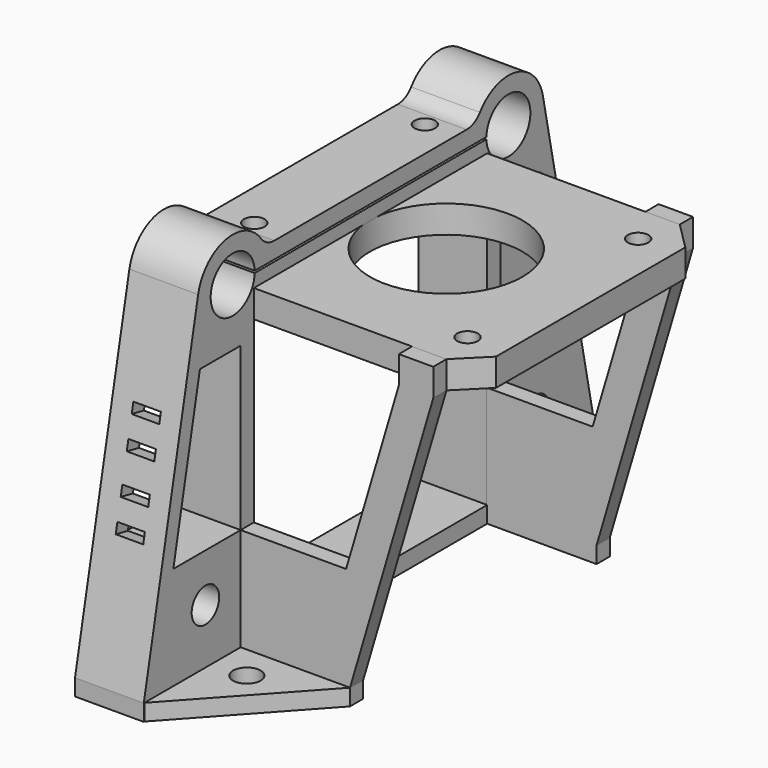
from build123d import *

# Parameters (mm, degrees)
SKETCH015_W     = 42
SKETCH015_H     = 42.4
PAD004_DEPTH    = 4
CHAMFER003_SIZE = 4
SKETCH018_R     = 11.1
SKETCH018_R_2   = 1.5
POCKET010_DEPTH = 4.001
SKETCH019_R     = 2.5
SKETCH019_W     = 42.4
SKETCH019_H     = 45
PAD006_DEPTH    = 10
SKETCH020_R     = 1.5
POCKET011_DEPTH = 12.401
FILLET004_R     = 3
SKETCH_W        = 1.5
SKETCH_H        = 4
POCKET_DEPTH    = 2.2533090509
PAD007_DEPTH    = 2.4
PAD008_DEPTH    = 2.4
SKETCH023_R     = 2
PAD009_DEPTH    = 2.4
SKETCH024_R     = 2
PAD010_DEPTH    = 2.4


with BuildPart() as motorplate:
    # Sketch015 → Pad004 (new body)
    with BuildSketch(Plane.XY):
        Rectangle(SKETCH015_W, SKETCH015_H)
    extrude(amount=PAD004_DEPTH)

    # Chamfer003
    chamfer003_edges = [motorplate.edges().sort_by_distance(p)[0] for p in [
        (21, -21.2, 2),
        (21, 21.2, 2),
    ]]
    chamfer(chamfer003_edges, length=CHAMFER003_SIZE)

    # Sketch018 → Pocket010 (cut, through all)
    with BuildSketch(Plane(origin=(0, 0, 0), x_dir=(1, 0, 0), z_dir=(0, 0, -1))):
        Circle(SKETCH018_R)
        with Locations((-15.5, 15.5)):
            Circle(SKETCH018_R_2)
        with Locations((15.5, 15.5)):
            Circle(SKETCH018_R_2)
        with Locations((-15.5, -15.5)):
            Circle(SKETCH018_R_2)
        with Locations((15.5, -15.5)):
            Circle(SKETCH018_R_2)
    extrude(amount=-POCKET010_DEPTH, mode=Mode.SUBTRACT)


with BuildPart() as rodholder:
    # Sketch019 → Pad006 (new body)
    with BuildSketch(Plane(origin=(-21.2, 0, 0), x_dir=(0, -1, 0), z_dir=(-1, 0, 0))):
        with BuildLine():
            ThreePointArc((-19.1799488929, 8.55), (-25.7143172438, 12.3654287051), (-31.3200773591, 7.2830159436))
            Line((-31.3200773591, 7.2830159436), (-41.2, -41))
            Line((-41.2, -41), (-41.2, -43.4))
            Line((-41.2, -43.4), (41.2, -43.4))
            Line((41.2, -41), (41.2, -43.4))
            Line((41.2, -41), (31.3200773591, 7.2830159436))
            ThreePointArc((31.3200773591, 7.2830159436), (25.7143172438, 12.3654287051), (19.1799488929, 8.55))
            Line((-19.1799488929, 8.55), (19.1799488929, 8.55))
        make_face()
        with Locations((-30, -33)):
            Circle(SKETCH019_R, mode=Mode.SUBTRACT)
        with Locations((30, -33)):
            Circle(SKETCH019_R, mode=Mode.SUBTRACT)
        with Locations((0, -18.5)):
            Rectangle(SKETCH019_W, SKETCH019_H, mode=Mode.SUBTRACT)
        with BuildLine():
            ThreePointArc((21.0528134895, 5.85), (29.05, 6), (21.0528134895, 6.15))
            Line((-21.0528134895, 6.15), (21.0528134895, 6.15))
            ThreePointArc((-21.0528134895, 6.15), (-29.05, 6), (-21.0528134895, 5.85))
            Line((-21.0528134895, 5.85), (21.0528134895, 5.85))
        make_face(mode=Mode.SUBTRACT)
        Polygon((-31.001466603, -2.4), (-23.6, -2.4), (-23.6, -26), (-35.8306217369, -26), align=None, mode=Mode.SUBTRACT)
        Polygon((23.6, -2.4), (23.6, -26), (35.8306217369, -26), (31.001466603, -2.4), align=None, mode=Mode.SUBTRACT)
    extrude(amount=-PAD006_DEPTH)

    # Sketch020 → Pocket011 (cut, through all)
    with BuildSketch(Plane.XY):
        with Locations((-15.7, 15.5)):
            Circle(SKETCH020_R)
        with Locations((-15.7, -15.5)):
            Circle(SKETCH020_R)
    extrude(amount=POCKET011_DEPTH, mode=Mode.SUBTRACT)

    # Fillet004
    fillet004_edges = [rodholder.edges().sort_by_distance(p)[0] for p in [
        (-16.2, -19.179949, 8.55),
        (-16.2, 19.179949, 8.55),
    ]]
    fillet(fillet004_edges, radius=FILLET004_R)

    # Sketch (on Face4 of Fillet004) → Pocket (cut)
    with BuildSketch(Plane(origin=(-21.2, -31.4917595132, 6.4440081411), x_dir=(0, 0.2004712412, 0.9796995874), z_dir=(0, -0.9796995874, 0.2004712412))):
        with Locations((-29.4533105631, -5)):
            Rectangle(SKETCH_W, SKETCH_H)
        with Locations((-24.9533105631, -5)):
            Rectangle(SKETCH_W, SKETCH_H)
        with Locations((-19.4533105631, -5)):
            Rectangle(SKETCH_W, SKETCH_H)
        with Locations((-14.9533105631, -5)):
            Rectangle(SKETCH_W, SKETCH_H)
    extrude(amount=-POCKET_DEPTH, mode=Mode.SUBTRACT)


with BuildPart() as rodholder_1:
    # Body002 placement: moved
    add(rodholder.part.moved(Location((0.2, 0, 0))))


with BuildPart() as rightsupport:
    # Sketch021 → Pad007 (new body)
    with BuildSketch(Plane.XZ):
        Polygon((-11.1, -43.4), (4.9, -43.4), (4.9, -41), (17, 0), (17, 4), (12, 4), (12, 0), (4.3268292683, -26), (-11.1, -26), align=None)
    extrude(amount=PAD007_DEPTH)


with BuildPart() as rightsupport_1:
    # Body003 placement: moved
    add(rightsupport.part.moved(Location((0, -21.2, 0))))


with BuildPart() as leftsupport:
    # Sketch022 → Pad008 (new body)
    with BuildSketch(Plane.XZ):
        Polygon((12, 4), (17, 4), (17, 0), (4.9, -41), (4.9, -43.4), (-11.1, -43.4), (-11.1, -26), (4.3268292683, -26), (12, 0), align=None)
    extrude(amount=-PAD008_DEPTH)


with BuildPart() as leftsupport_1:
    # Body004 placement: moved
    add(leftsupport.part.moved(Location((0, 21.2, 0))))


with BuildPart() as rightmountingplate:
    # Sketch023 → Pad009 (new body)
    with BuildSketch(Plane.XY):
        Polygon((-11.1, -23.6), (-11.1, -41.2), (4.9, -23.6), align=None)
        with Locations((-6.1, -28.6)):
            Circle(SKETCH023_R, mode=Mode.SUBTRACT)
    extrude(amount=-PAD009_DEPTH)


with BuildPart() as rightmountingplate_1:
    # Body005 placement: moved
    add(rightmountingplate.part.moved(Location((0, 0, -41))))


with BuildPart() as leftmountingplate:
    # Sketch024 → Pad010 (new body)
    with BuildSketch(Plane.XY):
        Polygon((-11.1, 41.2), (-11.1, 23.6), (4.9, 23.6), align=None)
        with Locations((-6.1, 28.6)):
            Circle(SKETCH024_R, mode=Mode.SUBTRACT)
    extrude(amount=-PAD010_DEPTH)


with BuildPart() as leftmountingplate_1:
    # Body006 placement: moved
    add(leftmountingplate.part.moved(Location((0, 0, -41))))


solid = Compound([motorplate.part, rodholder_1.part, rightsupport_1.part, leftsupport_1.part, rightmountingplate_1.part, leftmountingplate_1.part])
